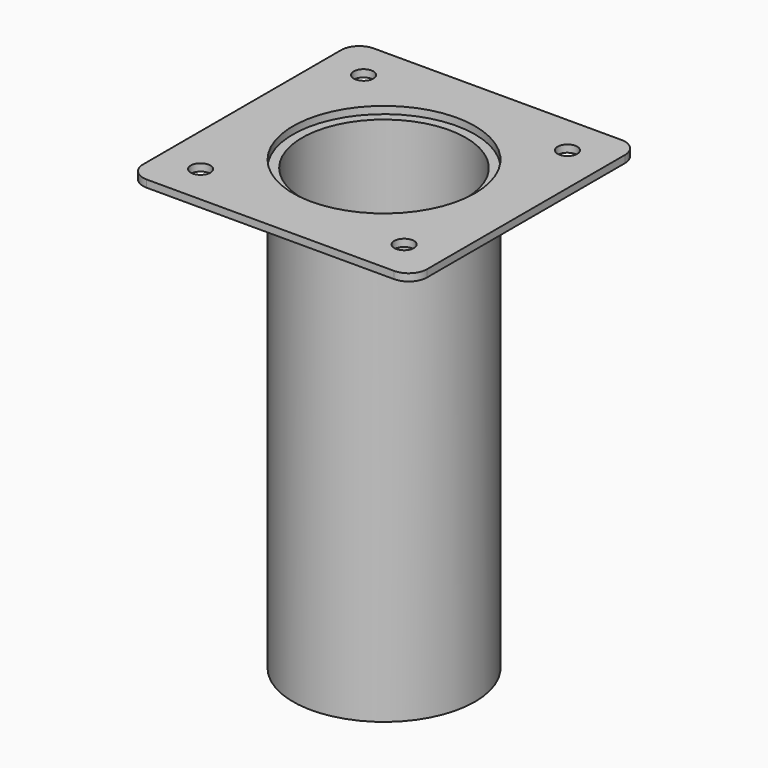
from build123d import *

# Parameters (mm, degrees)
F0_R     = 25
F1_DEPTH = 121
F2_T     = -2.5
F3_R     = 2.7
F3_R_2   = 25
F4_DEPTH = 2


with BuildPart() as f1:
    # F0 (on Top) → F1 (new body)
    with BuildSketch(Plane.XY):
        Circle(F0_R)
    extrude(amount=-F1_DEPTH)

    # F2
    f2_openings = [f1.faces().sort_by_distance(p)[0] for p in [
        (0, 0, 0),
    ]]
    offset(amount=F2_T, openings=f2_openings)


with BuildPart() as f4:
    # F3 (on face) → F4 (new body)
    with BuildSketch(Plane.XY):
        with BuildLine():
            Line((-34, -39), (34, -39))
            ThreePointArc((34, -39), (37.5355339059, -37.5355339059), (39, -34))
            Line((39, -34), (39, 34))
            ThreePointArc((39, 34), (37.5355339059, 37.5355339059), (34, 39))
            Line((34, 39), (-34, 39))
            ThreePointArc((-34, 39), (-37.5355339059, 37.5355339059), (-39, 34))
            Line((-39, 34), (-39, -34))
            ThreePointArc((-39, -34), (-37.5355339059, -37.5355339059), (-34, -39))
        make_face()
        with Locations((-28, -28)):
            Circle(F3_R, mode=Mode.SUBTRACT)
        with Locations((28, -28.0680302531)):
            Circle(F3_R, mode=Mode.SUBTRACT)
        with Locations((-28, 28)):
            Circle(F3_R, mode=Mode.SUBTRACT)
        Circle(F3_R_2, mode=Mode.SUBTRACT)
        with Locations((28, 28)):
            Circle(F3_R, mode=Mode.SUBTRACT)
    extrude(amount=F4_DEPTH)


solid = Compound([f1.part, f4.part])
